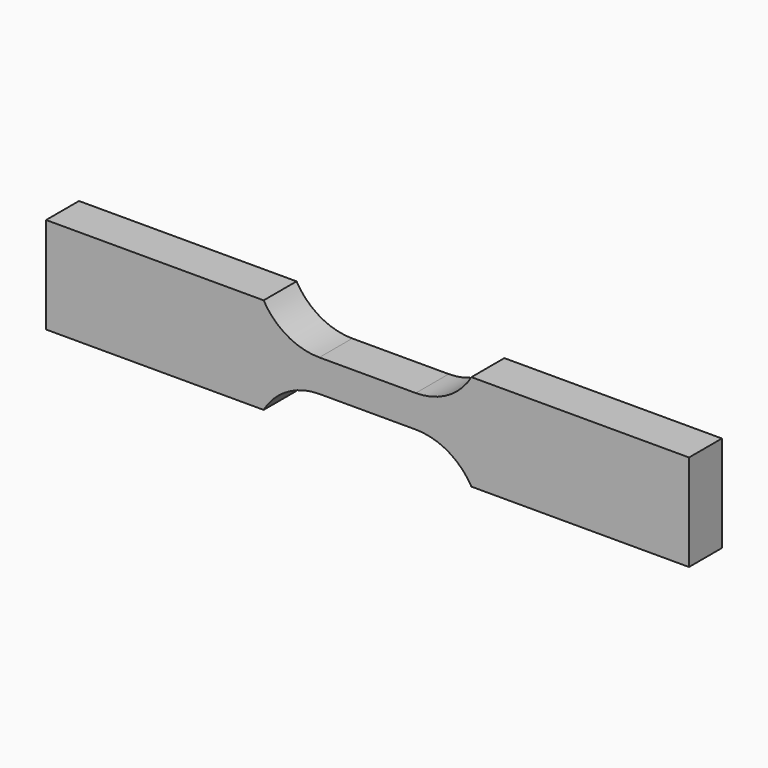
from build123d import *

# Parameters (mm, degrees)
F1_DEPTH = 2.032


with BuildPart() as f1:
    # F0 (on Front) → F1 (new body, symmetric)
    with BuildSketch(Plane.XZ):
        with BuildLine():
            Line((-10.261761, 4.7625), (-31.75, 4.7625))
            Line((-31.75, 4.7625), (-31.75, 0))
            Line((-31.75, 0), (-31.75, -4.7625))
            Line((-31.75, -4.7625), (-10.261761, -4.7625))
            ThreePointArc((-10.261761, -4.7625), (-7.9375, -2.438239), (-4.7625, -1.5875))
            Line((-4.7625, -1.5875), (0, -1.5875))
            Line((0, -1.5875), (4.7625, -1.5875))
            ThreePointArc((4.7625, -1.5875), (7.9375, -2.438239), (10.261761, -4.7625))
            Line((10.261761, -4.7625), (31.75, -4.7625))
            Line((31.75, -4.7625), (31.75, 0))
            Line((31.75, 0), (31.75, 4.7625))
            Line((31.75, 4.7625), (10.261761, 4.7625))
            ThreePointArc((10.261761, 4.7625), (7.9375, 2.438239), (4.7625, 1.5875))
            Line((4.7625, 1.5875), (0, 1.5875))
            Line((0, 1.5875), (-4.7625, 1.5875))
            ThreePointArc((-4.7625, 1.5875), (-7.9375, 2.438239), (-10.261761, 4.7625))
        make_face()
    extrude(amount=F1_DEPTH, both=True)


solid = f1.part
